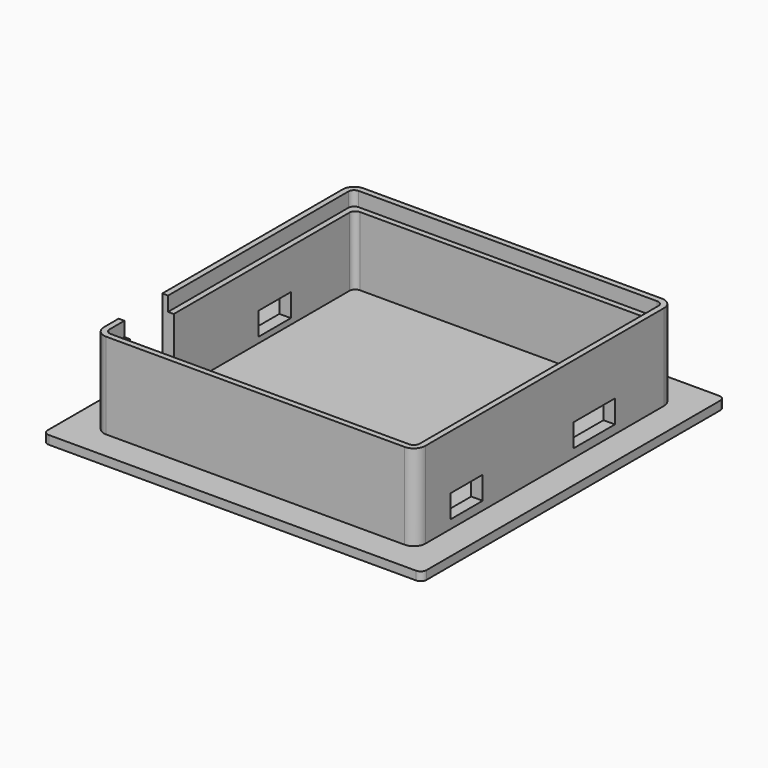
from build123d import *

# Parameters (mm, degrees)
PAD_DEPTH       = 15
PAD_DEPTH_BACK  = 1.5
POCKET_DEPTH    = 2.5
POCKET001_DEPTH = 12
SKETCH003_W     = 9.5
SKETCH003_H     = 13.5
POCKET002_DEPTH = 7
SKETCH004_W     = 7
SKETCH004_H     = 4
POCKET003_DEPTH = 7
SKETCH006_W     = 7
SKETCH006_H     = 4
SKETCH006_W_2   = 9
POCKET004_DEPTH = 7
SKETCH007_W     = 66
SKETCH007_H     = 66
POCKET005_DEPTH = 15


with BuildPart() as part:
    # Sketch → Pad (new body, two sides)
    with BuildSketch(Plane.XY) as pad_sk:
        with BuildLine():
            Line((-32, 33), (32, 33))
            ThreePointArc((33, 32), (32.707107, 32.707107), (32, 33))
            Line((33, 32), (33, -32))
            ThreePointArc((32, -33), (32.707107, -32.707107), (33, -32))
            Line((32, -33), (-32, -33))
            ThreePointArc((-33, -32), (-32.707107, -32.707107), (-32, -33))
            Line((-33, -32), (-33, 32))
            ThreePointArc((-32, 33), (-32.707107, 32.707107), (-33, 32))
        make_face()
    extrude(amount=PAD_DEPTH)
    extrude(pad_sk.sketch, amount=-PAD_DEPTH_BACK)

    # Sketch001 (on Face10 of Pad) → Pocket (cut)
    with BuildSketch(Plane.XY.offset(15)):
        with BuildLine():
            Line((-26, 27), (26, 27))
            ThreePointArc((27, 26), (26.707107, 26.707107), (26, 27))
            Line((27, 26), (27, -26))
            ThreePointArc((26, -27), (26.707107, -26.707107), (27, -26))
            Line((26, -27), (-26, -27))
            ThreePointArc((-27, -26), (-26.707107, -26.707107), (-26, -27))
            Line((-27, -26), (-27, 26))
            ThreePointArc((-26, 27), (-26.707107, 26.707107), (-27, 26))
        make_face()
    extrude(amount=-POCKET_DEPTH, mode=Mode.SUBTRACT)

    # Sketch002 (on Face19 of Pocket) → Pocket001 (cut)
    with BuildSketch(Plane.XY.offset(12.5)):
        with BuildLine():
            Line((-25, 26), (25, 26))
            ThreePointArc((26, 25), (25.707107, 25.707107), (25, 26))
            Line((26, 25), (26, -25))
            ThreePointArc((25, -26), (25.707107, -25.707107), (26, -25))
            Line((25, -26), (-25, -26))
            ThreePointArc((-26, -25), (-25.707107, -25.707107), (-25, -26))
            Line((-26, -25), (-26, 25))
            ThreePointArc((-25, 26), (-25.707107, 25.707107), (-26, 25))
        make_face()
    extrude(amount=-POCKET001_DEPTH, mode=Mode.SUBTRACT)

    # Sketch003 (on Face1 of Pocket001) → Pocket002 (cut)
    with BuildSketch(Plane(origin=(-33, 0, 0), x_dir=(0, -1, 0), z_dir=(-1, 0, 0))):
        with Locations((18.04, 8.25)):
            Rectangle(SKETCH003_W, SKETCH003_H)
    extrude(amount=-POCKET002_DEPTH, mode=Mode.SUBTRACT)

    # Sketch004 (on Face1 of Pocket002) → Pocket003 (cut)
    with BuildSketch(Plane(origin=(-33, 0, 0), x_dir=(0, -1, 0), z_dir=(-1, 0, 0))):
        with Locations((-8.71, 3.5)):
            Rectangle(SKETCH004_W, SKETCH004_H)
    extrude(amount=-POCKET003_DEPTH, mode=Mode.SUBTRACT)

    # Sketch006 (on Face15 of Pocket003) → Pocket004 (cut)
    with BuildSketch(Plane.YZ.offset(33)):
        with Locations((-17, 3.5)):
            Rectangle(SKETCH006_W, SKETCH006_H)
        with Locations((10.8, 3.5)):
            Rectangle(SKETCH006_W_2, SKETCH006_H)
    extrude(amount=-POCKET004_DEPTH, mode=Mode.SUBTRACT)

    # Sketch007 (on Face5 of Pocket004) → Pocket005 (cut)
    with BuildSketch(Plane.XY.offset(15)):
        Rectangle(SKETCH007_W, SKETCH007_H)
        with BuildLine():
            Line((28, 26), (28, -26))
            ThreePointArc((26, -28), (27.414214, -27.414214), (28, -26))
            Line((26, -28), (-26, -28))
            ThreePointArc((-28, -26), (-27.414214, -27.414214), (-26, -28))
            Line((-28, -26), (-28, 26))
            ThreePointArc((-26, 28), (-27.414214, 27.414214), (-28, 26))
            Line((26, 28), (-26, 28))
            ThreePointArc((28, 26), (27.414214, 27.414214), (26, 28))
        make_face(mode=Mode.SUBTRACT)
    extrude(amount=-POCKET005_DEPTH, mode=Mode.SUBTRACT)


solid = part.part
